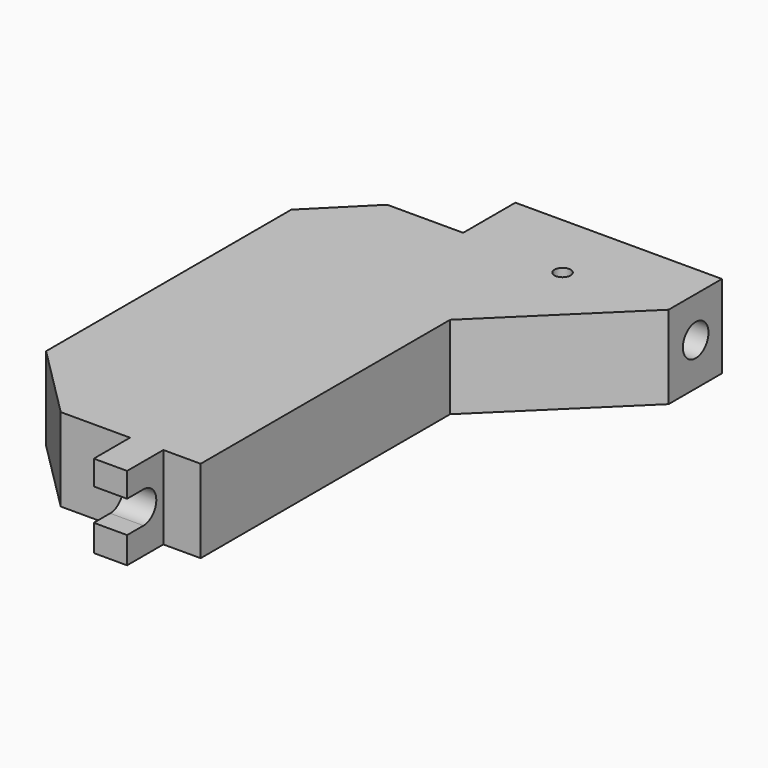
from build123d import *

# Parameters (mm, degrees)
F0_R     = 0.762
F1_DEPTH = 7.9248
F2_R     = 1.524
F3_DEPTH = 32.005


with BuildPart() as f1:
    # F0 (on Top) → F1 (new body)
    with BuildSketch(Plane.XY):
        Polygon((32.004, 34.163), (32.004, 40.513), (12.319, 40.513), (12.319, 34.29), (5.08, 34.29), (0, 29.21), (0, 0), (6.985, -6.985), (13.589, -6.985), (13.589, -11.303), (16.764, -11.303), (16.764, -6.985), (20.32, -6.985), (20.32, 22.733), align=None)
        with Locations((22.098, 33.909)):
            Circle(F0_R, mode=Mode.SUBTRACT)
    extrude(amount=F1_DEPTH)

    # F2 (on Right) → F3 (cut, through all)
    with BuildSketch(Plane.YZ):
        with Locations((37.3888, 4.064)):
            Circle(F2_R)
        with BuildLine():
            Line((-11.303, 2.54), (-9.3472, 2.54))
            ThreePointArc((-9.3472, 2.54), (-7.8232, 4.064), (-9.3472, 5.588))
            Line((-9.3472, 5.588), (-11.303, 5.588))
            Line((-11.303, 5.588), (-11.303, 2.54))
        make_face()
    extrude(amount=F3_DEPTH, mode=Mode.SUBTRACT)


solid = f1.part
